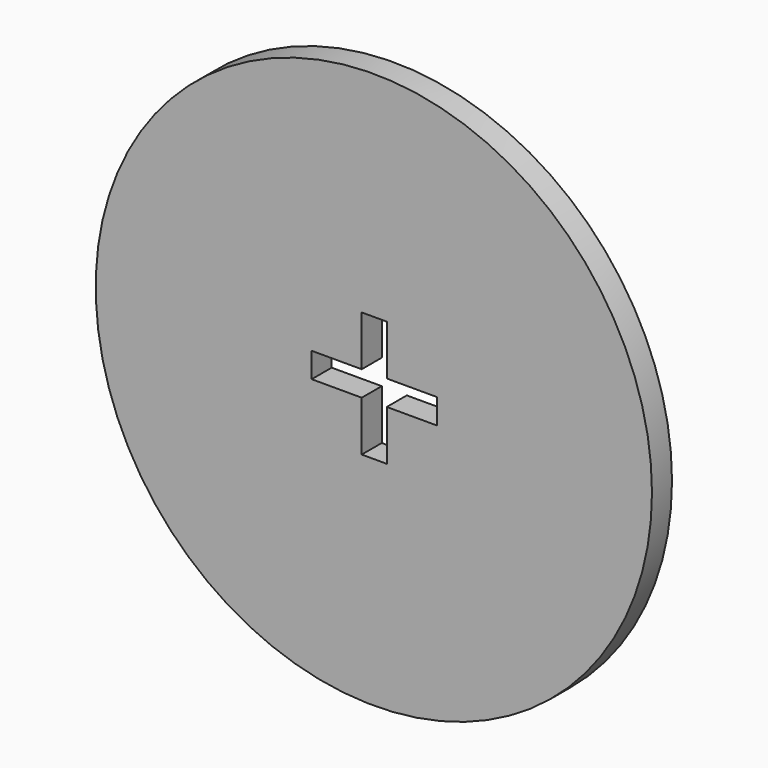
from build123d import *

# Parameters (mm, degrees)
F0_R     = 200
F1_DEPTH = 18


with BuildPart() as f1:
    # F0 (on Front) → F1 (new body)
    with BuildSketch(Plane.XZ):
        with Locations((-0.282222, -1.128889)):
            Circle(F0_R)
        Polygon((9, -9), (9, -45), (-9, -45), (-9, -9), (-45, -9), (-45, 9), (-9, 9), (-9, 45), (9, 45), (9, 9), (45, 9), (45, -9), align=None, mode=Mode.SUBTRACT)
    extrude(amount=F1_DEPTH)


solid = f1.part
